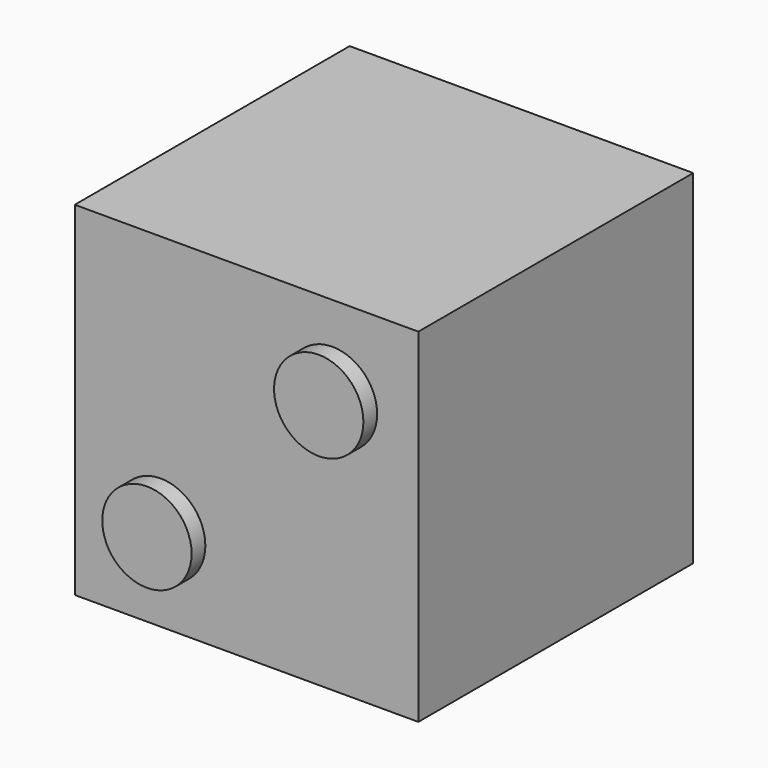
from build123d import *

# Parameters (mm, degrees)
F0_W     = 20
F0_H     = 20
F1_DEPTH = 20
F2_R     = 2.6
F3_DEPTH = 1
F4_R     = 2.6
F5_DEPTH = 1


with BuildPart() as f1:
    # F0 (on Front) → F1 (new body)
    with BuildSketch(Plane.XZ):
        with Locations((-10, 10)):
            Rectangle(F0_W, F0_H)
    extrude(amount=F1_DEPTH)

    # F2 (on face) → F3 (cut)
    with BuildSketch(Plane(origin=(0, 0, 0), x_dir=(-1, 0, 0), z_dir=(0, 1, 0))):
        with Locations((10, 10)):
            Circle(F2_R)
        with Locations((5, 15)):
            Circle(F2_R)
        with Locations((5, 5)):
            Circle(F2_R)
        with Locations((15, 15)):
            Circle(F2_R)
        with Locations((15, 5)):
            Circle(F2_R)
    extrude(amount=-F3_DEPTH, mode=Mode.SUBTRACT)

    # F4 (on face) → F5 (join)
    with BuildSketch(Plane.XZ.offset(20)):
        with Locations((-5, 15)):
            Circle(F4_R)
        with Locations((-15, 5)):
            Circle(F4_R)
    extrude(amount=F5_DEPTH)


solid = f1.part
